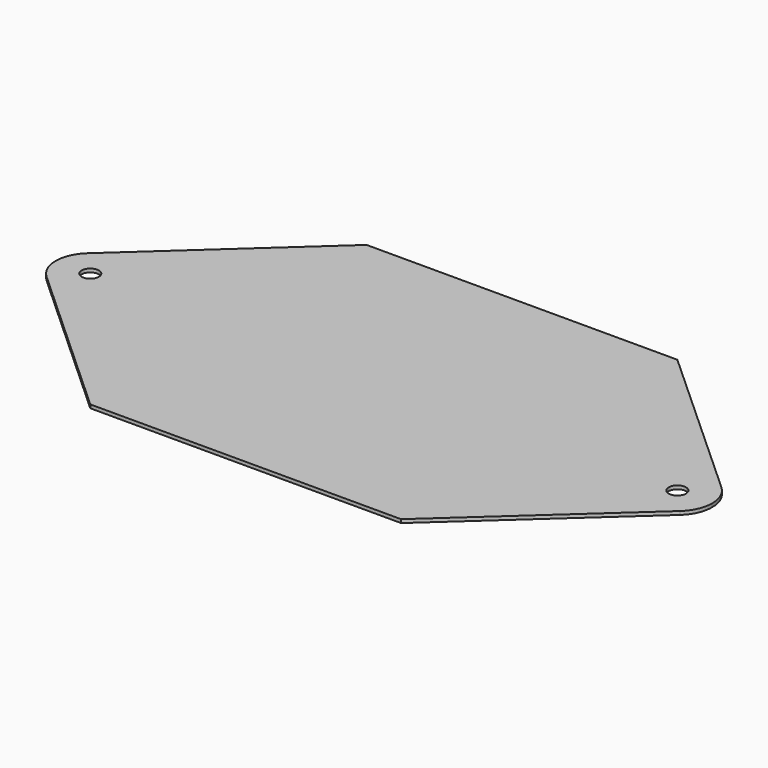
from build123d import *

# Parameters (mm, degrees)
F0_R     = 3.175
F0_W     = 114.3
F0_H     = 127
F1_DEPTH = 1.27


with BuildPart() as f1:
    # F0 (on Top) → F1 (new body)
    with BuildSketch(Plane.XY):
        with BuildLine():
            Line((-116.506323, -9.385059), (-57.15, -63.5))
            Line((-57.15, -63.5), (-57.15, 63.5))
            Line((-57.15, 63.5), (-116.506323, 9.385059))
            ThreePointArc((-116.506323, 9.385059), (-102.820444, 11.617988), (-95.25, 0))
            ThreePointArc((-95.25, 0), (-102.820444, -11.617988), (-116.506323, -9.385059))
        make_face()
        with BuildLine():
            ThreePointArc((-116.506323, 9.385059), (-120.65, 0), (-116.506323, -9.385059))
            ThreePointArc((-116.506323, -9.385059), (-102.820444, -11.617988), (-95.25, 0))
            ThreePointArc((-95.25, 0), (-102.820444, 11.617988), (-116.506323, 9.385059))
        make_face()
        with Locations((-107.95, 0)):
            Circle(F0_R, mode=Mode.SUBTRACT)
        Rectangle(F0_W, F0_H)
        with BuildLine():
            Line((57.15, 63.5), (57.15, -63.5))
            Line((57.15, -63.5), (116.566779, -9.477118))
            ThreePointArc((116.566779, -9.477118), (95.141228, 0), (116.566779, 9.477118))
            Line((116.566779, 9.477118), (57.15, 63.5))
        make_face()
        with BuildLine():
            ThreePointArc((116.566779, 9.477118), (95.141228, 0), (116.566779, -9.477118))
            ThreePointArc((116.566779, -9.477118), (119.663988, -5.181423), (120.758772, 0))
            ThreePointArc((120.758772, 0), (119.663988, 5.181423), (116.566779, 9.477118))
        make_face()
        with Locations((107.95, 0)):
            Circle(F0_R, mode=Mode.SUBTRACT)
    extrude(amount=F1_DEPTH)


solid = f1.part
